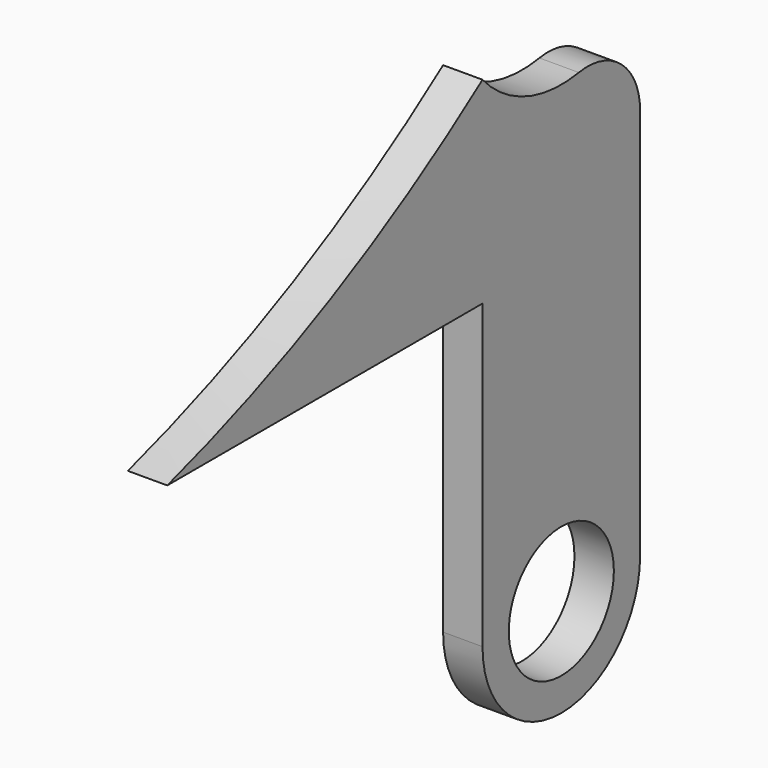
from build123d import *

# Parameters (mm, degrees)
F0_R     = 5
F1_DEPTH = 3


with BuildPart() as f1:
    # F0 (on Right) → F1 (new body)
    with BuildSketch(Plane.YZ):
        with BuildLine():
            ThreePointArc((30, 15), (15.633379, 6.233241), (0, 0))
            Line((0, 0), (30, 0))
            Line((30, 0), (30, -23))
            ThreePointArc((30, -23), (37.5, -30.5), (45, -23))
            Line((45, -23), (45, 6.824179))
            ThreePointArc((45, 6.824179), (43.227486, 10.642992), (39.166667, 11.754245))
            ThreePointArc((39.166667, 11.754245), (34.162235, 12.187856), (30, 15))
        make_face()
        with Locations((37.5, -23)):
            Circle(F0_R, mode=Mode.SUBTRACT)
    extrude(amount=F1_DEPTH)


solid = f1.part
